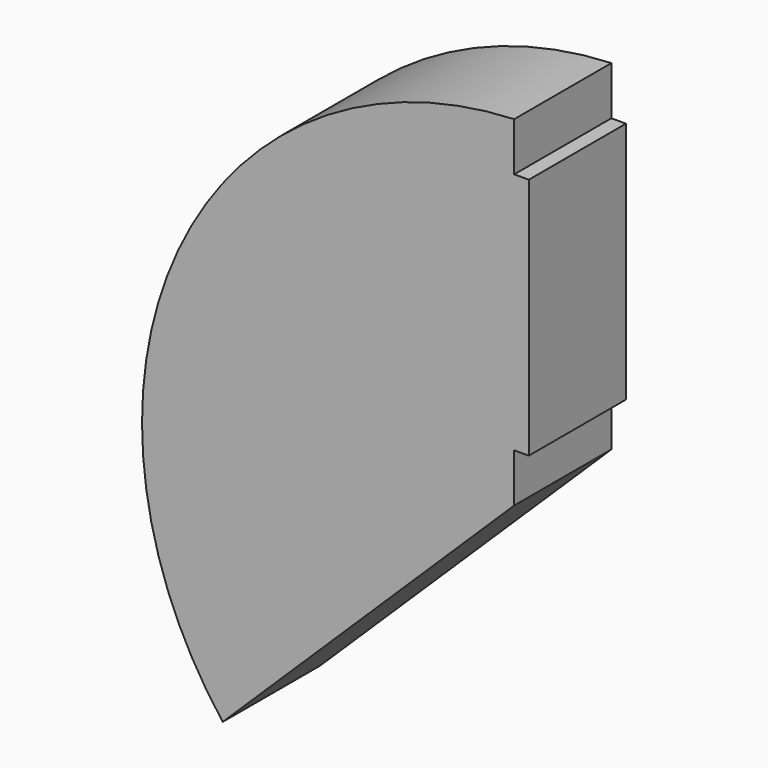
from build123d import *

# Parameters (mm, degrees)
F1_DEPTH = 25


with BuildPart() as f1:
    # F0 (on Front) → F1 (new body)
    with BuildSketch(Plane.XZ):
        with BuildLine():
            Line((29.10937, 80.459546), (29.10937, 90.459546))
            ThreePointArc((29.10937, 90.459546), (-40.010444, 44.328078), (-30.89063, -38.270288))
            Line((-30.89063, -38.270288), (29.10937, 20.459546))
            Line((29.10937, 20.459546), (29.10937, 30.459546))
            Line((29.10937, 30.459546), (32.10937, 30.459546))
            Line((32.10937, 30.459546), (32.10937, 80.459546))
            Line((32.10937, 80.459546), (29.10937, 80.459546))
        make_face()
    extrude(amount=F1_DEPTH)


solid = f1.part
